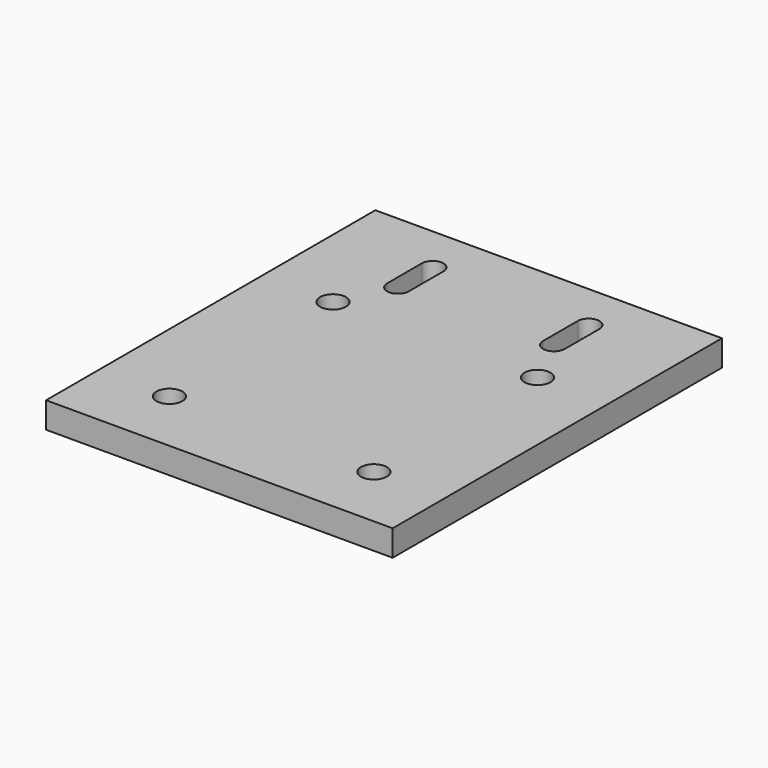
from build123d import *

# Parameters (mm, degrees)
F0_W     = 80
F0_H     = 95
F0_R     = 3
F1_DEPTH = 6


with BuildPart() as f1:
    # F0 (on Top) → F1 (new body)
    with BuildSketch(Plane.XY):
        Rectangle(F0_W, F0_H)
        with Locations((-23.6, -32.417263)):
            Circle(F0_R, mode=Mode.SUBTRACT)
        with Locations((23.6, -32.417263)):
            Circle(F0_R, mode=Mode.SUBTRACT)
        with Locations((-23.6, 14.782737)):
            Circle(F0_R, mode=Mode.SUBTRACT)
        with BuildLine():
            ThreePointArc((-20.5, 36.533368), (-18, 39.033368), (-15.5, 36.533368))
            Line((-15.5, 36.533368), (-15.5, 26.533368))
            ThreePointArc((-15.5, 26.533368), (-18, 24.033368), (-20.5, 26.533368))
            Line((-20.5, 26.533368), (-20.5, 36.533368))
        make_face(mode=Mode.SUBTRACT)
        with Locations((23.6, 14.782737)):
            Circle(F0_R, mode=Mode.SUBTRACT)
        with BuildLine():
            ThreePointArc((20.5, 26.533368), (18, 24.033368), (15.5, 26.533368))
            Line((15.5, 26.533368), (15.5, 36.533368))
            ThreePointArc((15.5, 36.533368), (18, 39.033368), (20.5, 36.533368))
            Line((20.5, 36.533368), (20.5, 26.533368))
        make_face(mode=Mode.SUBTRACT)
    extrude(amount=F1_DEPTH)


solid = f1.part
